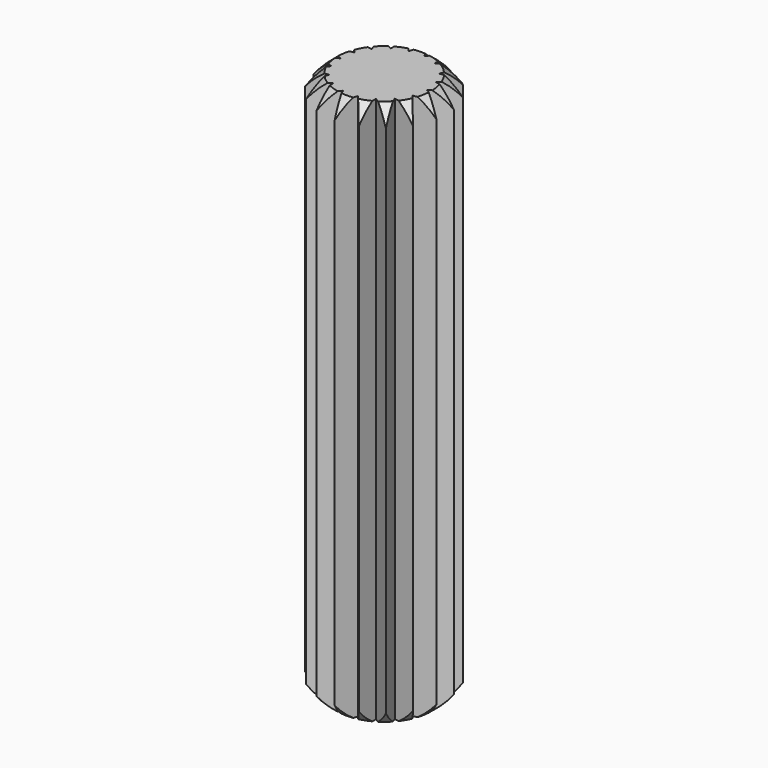
from build123d import *

# Parameters (mm, degrees)
CUT002_PLACEMENT_ANGLE = 180
OBJ1        = 35


with BuildPart() as sphere001:
    # Sphere001 → Sphere001 (revolve)
    with BuildSketch(Plane(origin=(0, 0, 3), x_dir=(1, 0, 0), z_dir=(0, -1, 0))):
        with BuildLine():
            ThreePointArc((0, -5), (5, 0), (0, 5))
            Line((0, 5), (0, -5))
        make_face()
    revolve(axis=Axis((0, 0, 3), (0, 0, 1)))


with BuildPart() as sphere:
    # Sphere → Sphere (revolve)
    with BuildSketch(Plane.XZ):
        with BuildLine():
            ThreePointArc((0, -5), (5, 0), (0, 5))
            Line((0, 5), (0, -5))
        make_face()
    revolve(axis=Axis((0, 0, 0), (0, 0, 1)))


with BuildPart() as cut002:
    # Cut002 base: copy of Sphere
    add(sphere.part)

    # Cut002: cut Sphere001
    add(sphere001.part, mode=Mode.SUBTRACT)


with BuildPart() as cut002_1:
    # Cut002 placement: moved
    add(cut002.part.moved(Location((0, 0, 34))).rotate(Axis((0, 0, 34), (1, 0, 0)), CUT002_PLACEMENT_ANGLE))


with BuildPart() as cut:
    # Cut base: copy of Sphere
    add(sphere.part)

    # Cut: cut Sphere001
    add(sphere001.part, mode=Mode.SUBTRACT)


with BuildPart() as cut_1:
    # Cut placement: moved
    add(cut.part.moved(Location((0, 0, 1))))


with BuildPart() as dowel_8_x_35_mm:
    with BuildSketch(Plane.XY):
        with BuildLine():
            Line((-1.49873, 3.708613), (-0.57693, 2.688801))
            Line((-0.57693, 2.688801), (-0.154647, 3.997009))
            Line((-0.154647, 3.997009), (0.367453, 2.72534))
            Line((0.367453, 2.72534), (1.207701, 3.813326))
            Line((1.207701, 3.813326), (1.268436, 2.439994))
            Line((1.268436, 2.439994), (2.427409, 3.179258))
            ThreePointArc((2.632688, 3.01147), (2.531439, 3.097066), (2.427409, 3.179258))
            Line((2.632688, 3.01147), (2.138815, 1.728575))
            Line((2.138815, 1.728575), (3.496771, 1.942316))
            Line((3.496771, 1.942316), (2.59773, 0.902385))
            Line((2.59773, 0.902385), (3.947857, 0.643758))
            Line((3.947857, 0.643758), (2.749832, -0.030384))
            Line((2.749832, -0.030384), (3.932669, -0.730833))
            Line((3.932669, -0.730833), (2.577157, -0.959565))
            Line((2.577157, -0.959565), (3.453, -2.019107))
            Line((3.453, -2.019107), (2.100098, -1.775413))
            Line((2.100098, -1.775413), (2.565503, -3.068907))
            Line((2.565503, -3.068907), (1.375, -2.38157))
            Line((1.375, -2.38157), (1.375, -3.756245))
            Line((1.375, -3.756245), (0.487504, -2.706444))
            Line((0.487504, -2.706444), (0.022098, -3.999939))
            Line((0.022098, -3.999939), (-0.457571, -2.711665))
            Line((-0.457571, -2.711665), (-1.333414, -3.771208))
            Line((-1.333414, -3.771208), (-1.348603, -2.396617))
            Line((-1.348603, -2.396617), (-2.531439, -3.097066))
            Line((-2.531439, -3.097066), (-2.080353, -1.798508))
            Line((-2.080353, -1.798508), (-3.430481, -2.057135))
            Line((-3.430481, -2.057135), (-2.566397, -0.98798))
            Line((-2.566397, -0.98798), (-3.924354, -0.774239))
            Line((-3.924354, -0.774239), (-2.749329, -0.060764))
            Line((-2.749329, -0.060764), (-3.954729, 0.6001))
            Line((-3.954729, 0.6001), (-2.607542, 0.873628))
            Line((-2.607542, 0.873628), (-3.518018, 1.903562))
            Line((-3.518018, 1.903562), (-2.157783, 1.704838))
            Line((-2.157783, 1.704838), (-2.6658, 2.982199))
            Line((-2.6658, 2.982199), (-1.453172, 2.334693))
            Line((-1.453172, 2.334693), (-1.49873, 3.708613))
        make_face()
    extrude(amount=OBJ1)

    # Cut001: cut Cut
    add(cut_1.part, mode=Mode.SUBTRACT)

    # Cut003: cut Cut002
    add(cut002_1.part, mode=Mode.SUBTRACT)


solid = dowel_8_x_35_mm.part
